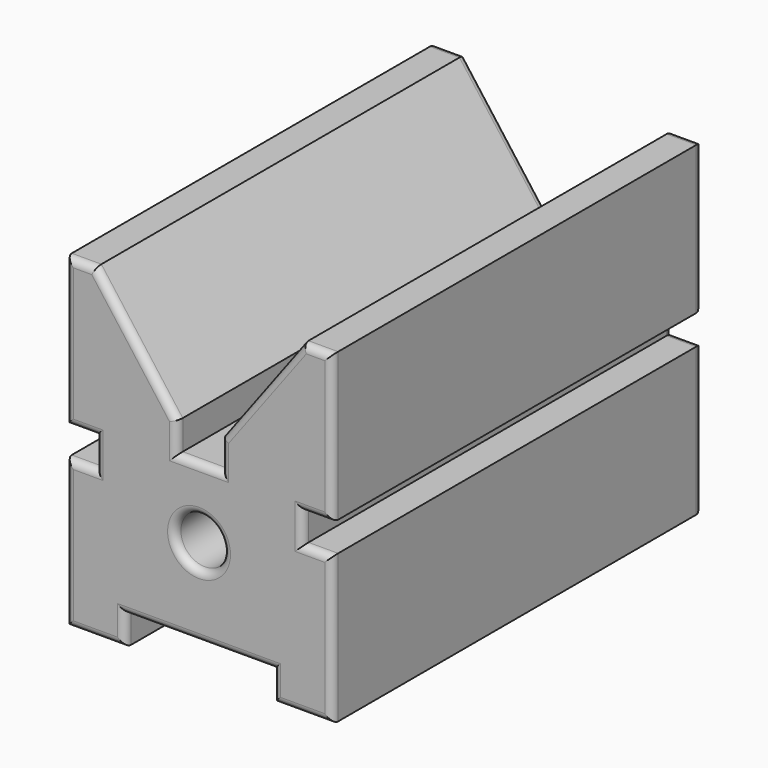
from build123d import *

# Parameters (mm, degrees)
F0_R     = 6.5
F1_DEPTH = 125
F2_R     = 2


with BuildPart() as f1:
    # F0 (on Front) → F1 (new body)
    with BuildSketch(Plane.XZ):
        Polygon((-16, 22.055958), (-16, -17.944042), (0, -17.944042), (0, -9.944042), (40, -9.944042), (40, -17.944042), (56, -17.944042), (56, 22.055958), (48, 22.055958), (48, 30.055958), (56, 30.055958), (56, 70.055958), (48, 70.055958), (26, 40.59356), (26, 32.59356), (20, 32.59356), (14, 32.59356), (14, 40.59356), (-8, 70.055958), (-16, 70.055958), (-16, 30.055958), (-8, 30.055958), (-8, 22.055958), align=None)
        with Locations((20, 13.635462)):
            Circle(F0_R, mode=Mode.SUBTRACT)
    extrude(amount=F1_DEPTH)

    # F2
    f2_edges = [f1.edges().sort_by_distance(p)[0] for p in [
        (-16, -125, 50.055958),
        (-12, -125, 70.055958),
        (3, -125, 55.324759),
        (-12, -125, 30.055958),
        (-8, -125, 26.055958),
        (-12, -125, 22.055958),
        (-16, -125, 2.055958),
        (-8, -125, -17.944042),
        (0, -125, -13.944042),
        (20, -125, -9.944042),
        (40, -125, -13.944042),
        (48, -125, -17.944042),
        (56, -125, 2.055958),
        (52, -125, 22.055958),
        (48, -125, 26.055958),
        (52, -125, 30.055958),
        (56, -125, 50.055958),
        (52, -125, 70.055958),
        (37, -125, 55.324759),
        (26, -125, 36.59356),
        (20, -125, 32.59356),
        (14, -125, 36.59356),
        (13.5, -125, 13.635462),
        (-16, 0, 50.055958),
        (-12, 0, 30.055958),
        (-8, 0, 26.055958),
        (-12, 0, 22.055958),
        (-16, 0, 2.055958),
        (-8, 0, -17.944042),
        (0, 0, -13.944042),
        (20, 0, -9.944042),
        (40, 0, -13.944042),
        (48, 0, -17.944042),
        (56, 0, 2.055958),
        (52, 0, 22.055958),
        (48, 0, 26.055958),
        (52, 0, 30.055958),
        (56, 0, 50.055958),
        (52, 0, 70.055958),
        (37, 0, 55.324759),
        (26, 0, 36.59356),
        (20, 0, 32.59356),
        (14, 0, 36.59356),
        (3, 0, 55.324759),
        (-12, 0, 70.055958),
        (13.5, 0, 13.635462),
    ]]
    fillet(f2_edges, radius=F2_R)


solid = f1.part
